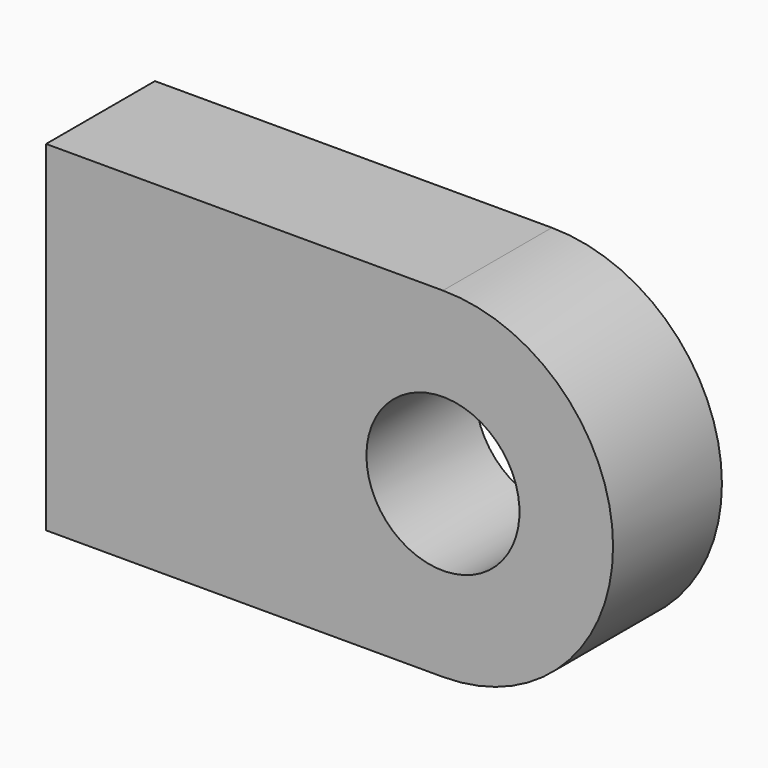
from build123d import *

# Parameters (mm, degrees)
F1_DEPTH = 12
F3_D     = 13.5


with BuildPart() as f1:
    # F0 (on Front) → F1 (new body)
    with BuildSketch(Plane.XZ):
        with BuildLine():
            Line((0, 30), (0, 0))
            Line((0, 0), (35, 0))
            ThreePointArc((35, 0), (45.6066017178, 4.3933982822), (50, 15))
            ThreePointArc((50, 15), (45.6066017178, 25.6066017178), (35, 30))
            Line((35, 30), (0, 30))
        make_face()
    extrude(amount=F1_DEPTH)

    # F3 (through all)
    with Locations(Plane.XZ.offset(12)):
        with Locations((35, 15)):
            Hole(F3_D / 2)


solid = f1.part
